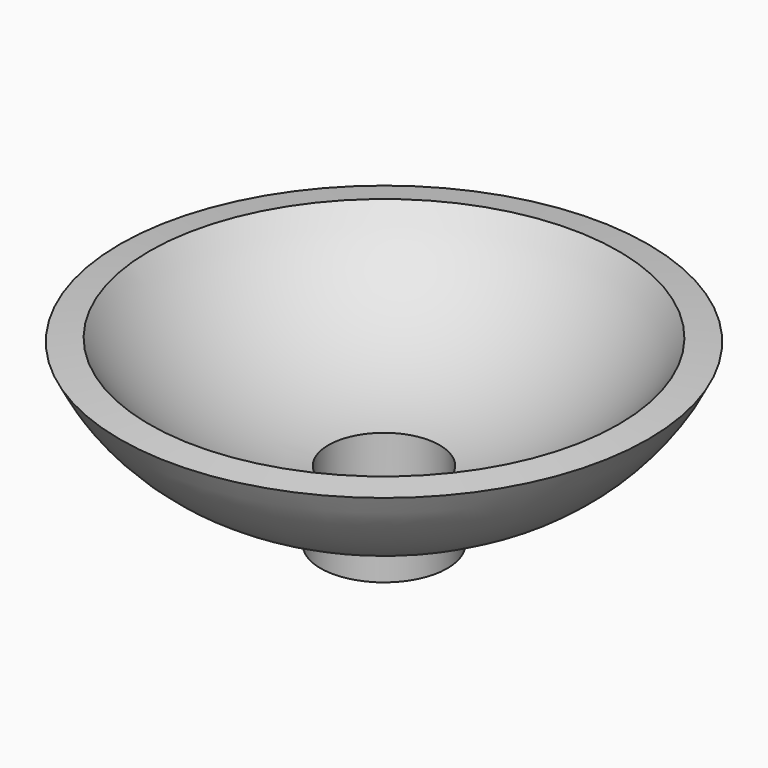
from build123d import *

# Parameters (mm, degrees)
F2_R     = 11.133514
F3_DEPTH = 25.4


with BuildPart() as f1:
    # F0 (on Front) → F1 (revolve)
    with BuildSketch(Plane.XZ):
        with BuildLine():
            Line((-12.7, 0), (0, 0))
            Line((0, 0), (0, 10.281935))
            ThreePointArc((0, 10.281935), (23.788364, 17.226008), (40.182274, 35.809498))
            Line((40.182274, 35.809498), (34.273114, 36.518596))
            ThreePointArc((34.273114, 36.518596), (13.830706, 18.790977), (-12.7, 13.47288))
            Line((-12.7, 13.47288), (-12.7, 10.281935))
            Line((-12.7, 10.281935), (-12.7, 0))
        make_face()
    revolve(axis=Axis((-12.7, 0, 5.140968), (0, 0, 1)))

    # F2 (on face) → F3 (cut)
    with BuildSketch(Plane(origin=(0, 0, 0), x_dir=(1, 0, 0), z_dir=(0, 0, -1))):
        with Locations((-12.7, 0)):
            Circle(F2_R)
    extrude(amount=-F3_DEPTH, mode=Mode.SUBTRACT)


solid = f1.part
